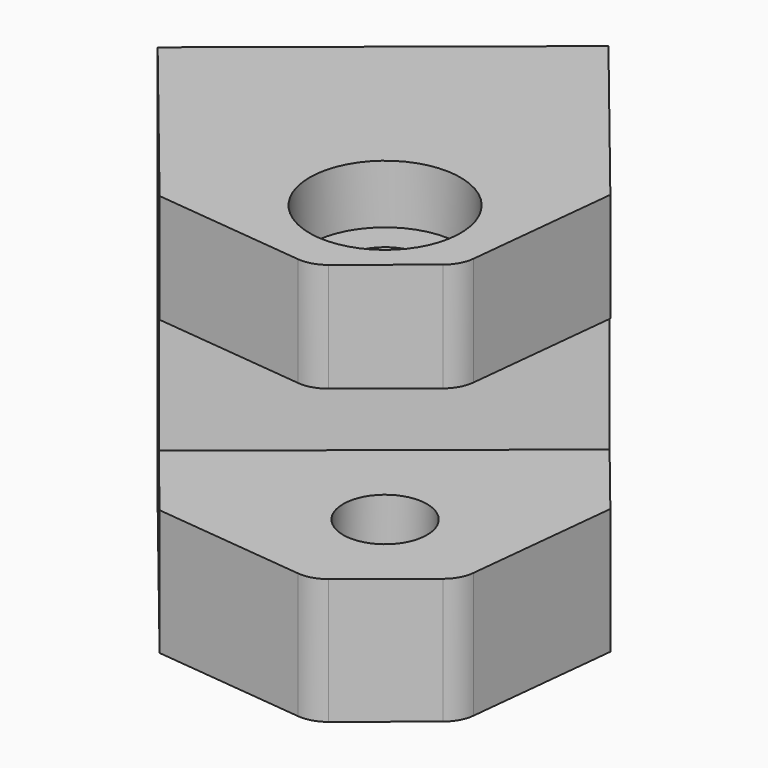
from build123d import *

# Parameters (mm, degrees)
CYLINDER025_R          = 2.5
CYLINDER025_DEPTH      = 32
CYLINDER027_R          = 4.5
CYLINDER027_DEPTH      = 5
CYLINDER026_R          = 4.5
CYLINDER026_DEPTH      = 5
BOX007_W               = 24
BOX007_H               = 14
BOX007_DEPTH           = 10
BOX005_W               = 18
BOX005_H               = 10
BOX005_DEPTH           = 21
BOX006_W               = 21
BOX006_H               = 22
BOX006_DEPTH           = 24
CHAMFER_SIZE           = 7
FILLET_R               = 2
CUT022_PLACEMENT_ANGLE = 39


with BuildPart() as cylinder025:
    # Cylinder025 → Cylinder025 (new body)
    with BuildSketch(Plane(origin=(55, -39, -20), x_dir=(1, 0, 0), z_dir=(0, 0, 1))):
        Circle(CYLINDER025_R)
    extrude(amount=CYLINDER025_DEPTH)


with BuildPart() as cylinder027:
    # Cylinder027 → Cylinder027 (new body)
    with BuildSketch(Plane(origin=(55, -39, 8), x_dir=(1, 0, 0), z_dir=(0, 0, 1))):
        Circle(CYLINDER027_R)
    extrude(amount=CYLINDER027_DEPTH)


with BuildPart() as cylinder026:
    # Cylinder026 → Cylinder026 (new body)
    with BuildSketch(Plane(origin=(55, -39, -14), x_dir=(1, 0, 0), z_dir=(0, 0, 1))):
        Circle(CYLINDER026_R)
    extrude(amount=CYLINDER026_DEPTH)


with BuildPart() as box007:
    # Box007 → Box007 (new body)
    with BuildSketch(Plane(origin=(43, -46, -5), x_dir=(1, 0, 0), z_dir=(0, 0, 1))):
        with Locations((12, 7)):
            Rectangle(BOX007_W, BOX007_H)
    extrude(amount=BOX007_DEPTH)


with BuildPart() as box005:
    # Box005 → Box005 (new body)
    with BuildSketch(Plane(origin=(46, -30, -11), x_dir=(1, 0, 0), z_dir=(0, 0, 1))):
        with Locations((9, 5)):
            Rectangle(BOX005_W, BOX005_H)
    extrude(amount=BOX005_DEPTH)


with BuildPart() as cut022:
    # Box006 → Box006 (new body)
    with BuildSketch(Plane(origin=(44.5, -45, -12.5), x_dir=(1, 0, 0), z_dir=(0, 0, 1))):
        with Locations((10.5, 11)):
            Rectangle(BOX006_W, BOX006_H)
    extrude(amount=BOX006_DEPTH)

    # Cut018: cut Box005
    add(box005.part, mode=Mode.SUBTRACT)

    # Chamfer
    chamfer_edges = [cut022.edges().sort_by_distance(p)[0] for p in [
        (44.5, -45, -0.5),
        (65.5, -45, -0.5),
    ]]
    chamfer(chamfer_edges, length=CHAMFER_SIZE)

    # Fillet
    fillet_edges = [cut022.edges().sort_by_distance(p)[0] for p in [
        (51.5, -45, -0.5),
        (58.5, -45, -0.5),
    ]]
    fillet(fillet_edges, radius=FILLET_R)

    # Cut019: cut Box007
    add(box007.part, mode=Mode.SUBTRACT)

    # Cut020: cut Cylinder026
    add(cylinder026.part, mode=Mode.SUBTRACT)

    # Cut021: cut Cylinder027
    add(cylinder027.part, mode=Mode.SUBTRACT)

    # Cut022: cut Cylinder025
    add(cylinder025.part, mode=Mode.SUBTRACT)


with BuildPart() as cut022_1:
    # Cut022 placement: moved
    add(cut022.part.moved(Location((-40, -38, 0))).rotate(Axis((-40, -38, 0), (0, 0, 1)), CUT022_PLACEMENT_ANGLE))


solid = cut022_1.part
